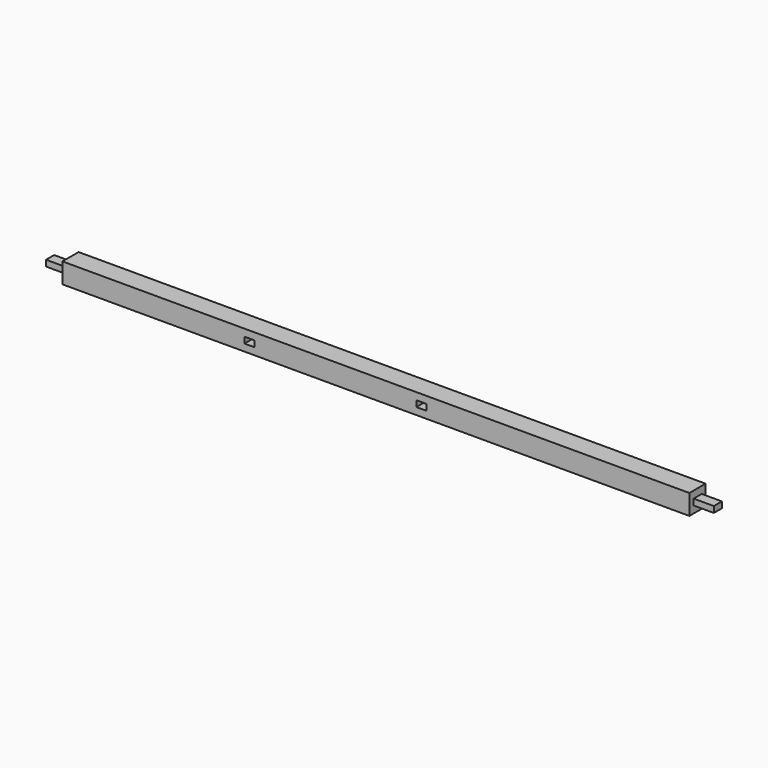
from build123d import *

# Parameters (mm, degrees)
F0_W     = 1676.4
F0_H     = 50.8
F1_DEPTH = 50.8
F2_W     = 50.8
F2_H     = 50.8
F3_DEPTH = 50.8
F5_DEPTH = 50.8
F6_W     = 25.4
F6_H     = 15.24
F7_DEPTH = 50.8
F8_W     = 25.4
F8_H     = 15.24
F9_DEPTH = 50.8


with BuildPart() as f1:
    # F0 (on Top) → F1 (new body)
    with BuildSketch(Plane.XY):
        Rectangle(F0_W, F0_H)
    extrude(amount=F1_DEPTH)

    # F2 (on face) → F3 (cut)
    with BuildSketch(Plane(origin=(-838.2, 0, 0), x_dir=(0, -1, 0), z_dir=(-1, 0, 0))):
        with Locations((0, 25.4)):
            Rectangle(F2_W, F2_H)
        Polygon((-12.177117, 33.02), (0, 33.02), (13.222883, 33.02), (13.222883, 17.78), (-12.177117, 17.78), align=None, mode=Mode.SUBTRACT)
    extrude(amount=-F3_DEPTH, mode=Mode.SUBTRACT)

    # F4 (on face) → F5 (cut)
    with BuildSketch(Plane.YZ.offset(838.2)):
        Polygon((25.4, 50.8), (0, 50.8), (-25.4, 50.8), (-25.4, 0), (25.4, 0), align=None)
        Polygon((-12.179509, 33.02), (0, 33.02), (13.220491, 33.02), (13.220491, 17.78), (-12.179509, 17.78), align=None, mode=Mode.SUBTRACT)
    extrude(amount=-F5_DEPTH, mode=Mode.SUBTRACT)

    # F6 (on face) → F7 (cut)
    with BuildSketch(Plane.XZ.offset(25.4)):
        with Locations((-317.5, 25.4)):
            Rectangle(F6_W, F6_H)
    extrude(amount=-F7_DEPTH, mode=Mode.SUBTRACT)

    # F8 (on face) → F9 (cut)
    with BuildSketch(Plane.XZ.offset(25.4)):
        with Locations((114.3, 25.4)):
            Rectangle(F8_W, F8_H)
    extrude(amount=-F9_DEPTH, mode=Mode.SUBTRACT)


solid = f1.part
